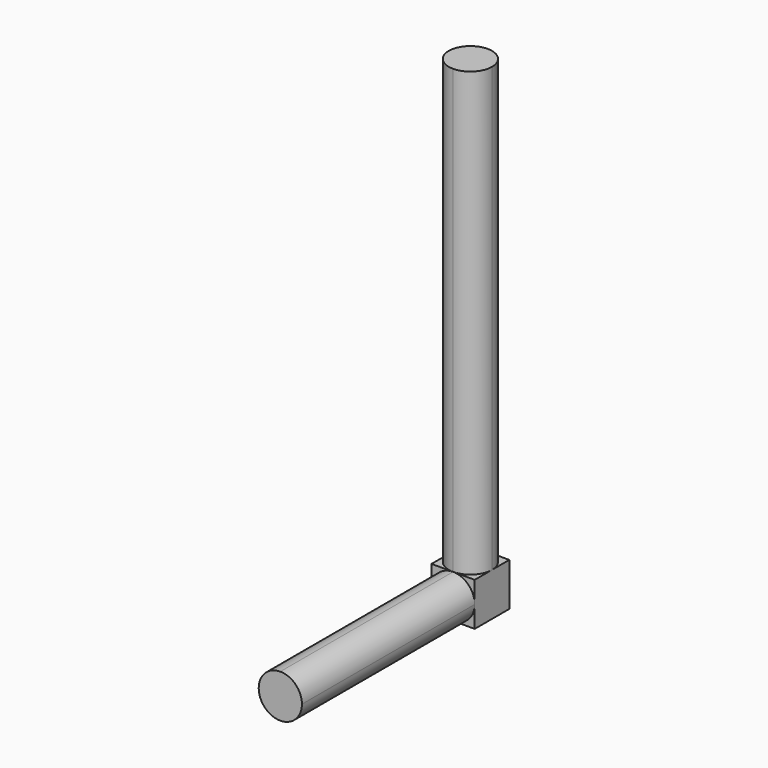
from build123d import *

# Parameters (mm, degrees)
F1_DEPTH = 2
F3_DEPTH = 20.5
F5_DEPTH = 10


with BuildPart() as f1:
    # F0 (on Right) → F1 (new body)
    with BuildSketch(Plane.YZ):
        Polygon((10, 0), (0, 0), (0, -2), (12, -2), (12, 20.5), (10, 20.5), align=None)
    extrude(amount=F1_DEPTH)

    # F2 (on face) → F3 (cut)
    with BuildSketch(Plane.XY.offset(20.5)):
        with BuildLine():
            ThreePointArc((0, 11), (0.292893, 11.707107), (1, 12))
            Line((1, 12), (0, 12))
            Line((0, 12), (0, 11))
        make_face()
        with BuildLine():
            ThreePointArc((1, 12), (1.707107, 11.707107), (2, 11))
            Line((2, 11), (2, 12))
            Line((2, 12), (1, 12))
        make_face()
        with BuildLine():
            Line((2, 10), (2, 11))
            ThreePointArc((2, 11), (1.707107, 10.292893), (1, 10))
            Line((1, 10), (2, 10))
        make_face()
        with BuildLine():
            Line((0, 10), (1, 10))
            ThreePointArc((1, 10), (0.292893, 10.292893), (0, 11))
            Line((0, 11), (0, 10))
        make_face()
    extrude(amount=-F3_DEPTH, mode=Mode.SUBTRACT)

    # F4 (on face) → F5 (cut)
    with BuildSketch(Plane.XZ):
        with BuildLine():
            Line((0, -2), (1, -2))
            ThreePointArc((1, -2), (0.292893, -1.707107), (0, -1))
            Line((0, -1), (0, -2))
        make_face()
        with BuildLine():
            Line((2, -2), (2, -1))
            ThreePointArc((2, -1), (1.707107, -1.707107), (1, -2))
            Line((1, -2), (2, -2))
        make_face()
        with BuildLine():
            ThreePointArc((1, 0), (1.707107, -0.292893), (2, -1))
            Line((2, -1), (2, 0))
            Line((2, 0), (1, 0))
        make_face()
        with BuildLine():
            ThreePointArc((0, -1), (0.292893, -0.292893), (1, 0))
            Line((1, 0), (0, 0))
            Line((0, 0), (0, -1))
        make_face()
    extrude(amount=-F5_DEPTH, mode=Mode.SUBTRACT)


solid = f1.part
